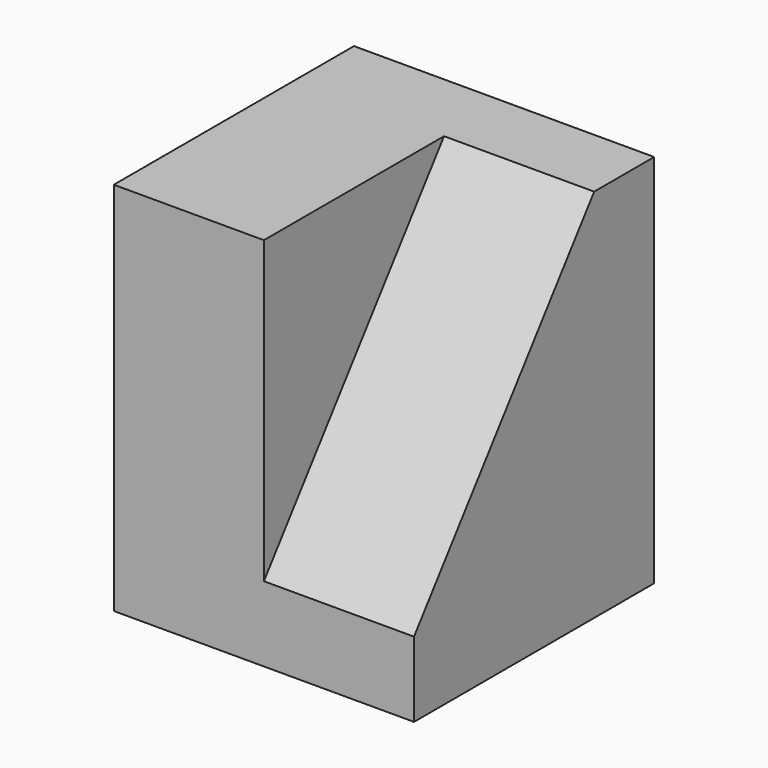
from build123d import *

# Parameters (mm, degrees)
F0_W     = 25.4
F0_H     = 31.75
F1_DEPTH = 12.7
F3_DEPTH = 25.4


with BuildPart() as f1:
    # F0 (on Right) → F1 (new body)
    with BuildSketch(Plane.YZ):
        with Locations((12.7, 15.875)):
            Rectangle(F0_W, F0_H)
    extrude(amount=F1_DEPTH)

    # F2 (on Right) → F3 (join)
    with BuildSketch(Plane.YZ):
        Polygon((19.05, 31.75), (0, 6.35), (0, 0), (25.4, 0), (25.4, 31.75), align=None)
    extrude(amount=F3_DEPTH)


solid = f1.part
